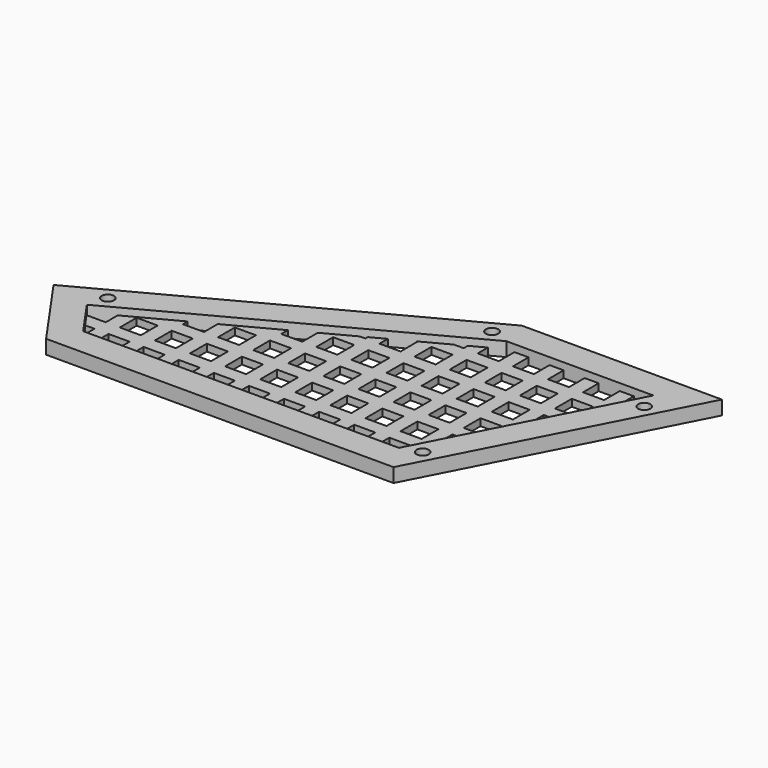
from build123d import *

# Parameters (mm, degrees)
SKETCH002_R      = 1.75
PAD005_DEPTH     = 25
SKETCH004_R      = 1.75
PAD004_DEPTH     = 4
PAD003_DEPTH     = 10
BOX001_W         = 157
BOX001_H         = 4
BOX001_DEPTH     = 2
ARRAY001_Y_COUNT = 7
ARRAY001_Y_PITCH = 10
BOX_W            = 4
BOX_H            = 71
BOX_DEPTH        = 2
ARRAY_X_COUNT    = 14
ARRAY_X_PITCH    = 10


with BuildPart() as pad005:
    # Sketch002 → Pad005 (new body)
    with BuildSketch(Plane.XY.offset(-5)):
        with Locations((-100.519385, 23.889178)):
            Circle(SKETCH002_R)
        with Locations((-23.703251, 64.733041)):
            Circle(SKETCH002_R)
        with Locations((25.294184, 57.68959)):
            Circle(SKETCH002_R)
        with Locations((0.517434, 9.718367)):
            Circle(SKETCH002_R)
    extrude(amount=PAD005_DEPTH)


with BuildPart() as pad004:
    # Sketch004 → Pad004 (new body)
    with BuildSketch(Plane.XY):
        Polygon((-113.912987, 21.297953), (-20.288199, 71.079136), (36.711801, 71.079136), (0, 0), (-22, 0), (-61, 0), (-99, 0), align=None)
        with Locations((-100.519385, 23.889178)):
            Circle(SKETCH004_R, mode=Mode.SUBTRACT)
        with Locations((-23.703251, 64.733041)):
            Circle(SKETCH004_R, mode=Mode.SUBTRACT)
        with Locations((25.294184, 57.68959)):
            Circle(SKETCH004_R, mode=Mode.SUBTRACT)
        with Locations((0.517434, 9.718367)):
            Circle(SKETCH004_R, mode=Mode.SUBTRACT)
        Polygon((-61, 8), (-94.835464, 8), (-102.173289, 18.479501), (-18.293574, 63.079136), (23.575817, 63.079136), (-4.872113, 8), (-22, 8), align=None, mode=Mode.SUBTRACT)
    extrude(amount=PAD004_DEPTH)


with BuildPart() as pad003:
    # Sketch003 → Pad003 (new body)
    with BuildSketch(Plane.XY.offset(-1)):
        Polygon((-113.912987, 21.297953), (-20.288199, 71.079136), (36.711801, 71.079136), (0, 0), (-22, 0), (-61, 0), (-99, 0), align=None)
    extrude(amount=PAD003_DEPTH)


with BuildPart() as array001:
    # Box001 → Box001 (new body)
    with BuildSketch(Plane(origin=(-115, 0, 0), x_dir=(1, 0, 0), z_dir=(0, 0, 1))):
        with Locations((78.5, 2)):
            Rectangle(BOX001_W, BOX001_H)
    extrude(amount=BOX001_DEPTH)

    # Array001 Y: Array001 ×7


with BuildPart() as array001_1:
    add(array001.part)
    with Locations(*[(0, i * ARRAY001_Y_PITCH, 0) for i in range(1, ARRAY001_Y_COUNT)]):
        add(array001.part)


with BuildPart() as array001_2:
    # Array001 placement: moved
    add(array001_1.part.moved(Location((0, 3.5, 0))))


with BuildPart() as cut002:
    # Box → Box (new body)
    with BuildSketch(Plane.XY):
        with Locations((2, 35.5)):
            Rectangle(BOX_W, BOX_H)
    extrude(amount=BOX_DEPTH)

    # Array X: Cut002 ×14


with BuildPart() as cut002_1:
    add(cut002.part)
    with Locations(*[(i * ARRAY_X_PITCH, 0, 0) for i in range(1, ARRAY_X_COUNT)]):
        add(cut002.part)


with BuildPart() as cut002_2:
    # Array placement: moved
    add(cut002_1.part.moved(Location((-96, 0, 0))))

    # Fusion002: union Array001
    add(array001_2.part)

    # Common001: intersect Pad003
    add(pad003.part, mode=Mode.INTERSECT)

    # Fusion003: union Pad004
    add(pad004.part)

    # Cut002: cut Pad005
    add(pad005.part, mode=Mode.SUBTRACT)


solid = cut002_2.part
